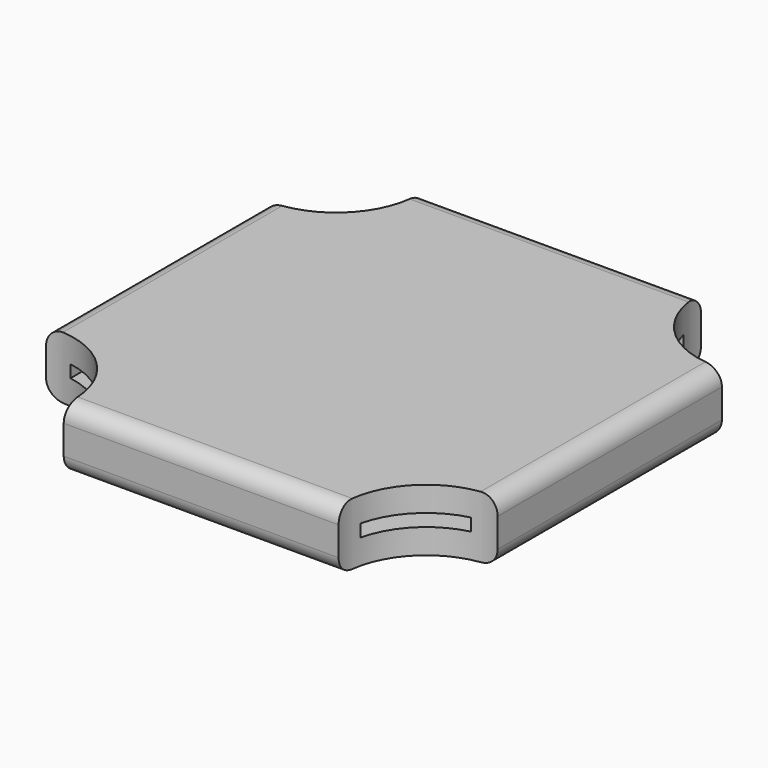
from build123d import *

# Parameters (mm, degrees)
F0_W      = 139.8479826748
F0_H      = 140.0080993772
F1_DEPTH  = 19.05
F2_R      = 5.08
F3_R      = 25.5680364158
F4_DEPTH  = 25.4
F5_DEPTH  = 25.4
F6_T      = -7.62
F7_R      = 25.4280545829
F8_DEPTH  = 25.4
F9_DEPTH  = 25.4
F10_R     = 25.4772603169
F11_DEPTH = 25.4
F12_DEPTH = 25.4
F13_R     = 25.5378066053
F14_DEPTH = 25.4
F15_DEPTH = 25.4


with BuildPart() as f1:
    # F0 (on Top) → F1 (new body)
    with BuildSketch(Plane.XY):
        with Locations((7.7169742435, 24.6758498251)):
            Rectangle(F0_W, F0_H)
    extrude(amount=F1_DEPTH)

    # F2
    f2_edges = [f1.edges().sort_by_distance(p)[0] for p in [
        (7.716974, -45.3282, 19.05),
        (7.716974, -45.3282, 0),
        (-62.207017, 94.6799, 9.525),
        (-62.207017, -45.3282, 9.525),
        (-62.207017, 24.67585, 0),
        (-62.207017, 24.67585, 19.05),
        (7.716974, 94.6799, 19.05),
        (7.716974, 94.6799, 0),
        (77.640966, 24.67585, 19.05),
        (77.640966, 24.67585, 0),
        (77.640966, -45.3282, 9.525),
        (77.640966, 94.6799, 9.525),
    ]]
    fillet(f2_edges, radius=F2_R)

    # F3 (on Top) → F4 (join)
    with BuildSketch(Plane.XY):
        with Locations((-58.9822605252, -41.7709499598)):
            Circle(F3_R)
    extrude(amount=F4_DEPTH)

    # F5 (cut): a face of the model
    f5_faces = [f1.faces().sort_by_distance(p)[0] for p in [
        (-58.9822605252, -41.7709499598, 25.4),
    ]]
    extrude(f5_faces, amount=-F5_DEPTH, mode=Mode.SUBTRACT)

    # F6
    f6_openings = [f1.faces().sort_by_distance(p)[0] for p in [
        (-40.784716, -23.810609, 9.525),
    ]]
    offset(amount=F6_T, openings=f6_openings, kind=Kind.INTERSECTION)

    # F7 (on Top) → F8 (join)
    with BuildSketch(Plane.XY):
        with Locations((-60.7334524393, 92.9428115487)):
            Circle(F7_R)
    extrude(amount=F8_DEPTH)

    # F9 (cut): a face of the model
    f9_faces = [f1.faces().sort_by_distance(p)[0] for p in [
        (-60.7334524393, 92.9428115487, 25.4),
    ]]
    extrude(f9_faces, amount=-F9_DEPTH, mode=Mode.SUBTRACT)

    # F10 (on Top) → F11 (join)
    with BuildSketch(Plane.XY):
        with Locations((76.0564357042, -43.5319244862)):
            Circle(F10_R)
    extrude(amount=F11_DEPTH)

    # F12 (cut): a face of the model
    f12_faces = [f1.faces().sort_by_distance(p)[0] for p in [
        (76.0564357042, -43.5319244862, 25.4),
    ]]
    extrude(f12_faces, amount=-F12_DEPTH, mode=Mode.SUBTRACT)

    # F13 (on Top) → F14 (join)
    with BuildSketch(Plane.XY):
        with Locations((75.2917006612, 93.2972580194)):
            Circle(F13_R)
    extrude(amount=F14_DEPTH)

    # F15 (cut): a face of the model
    f15_faces = [f1.faces().sort_by_distance(p)[0] for p in [
        (75.2917006612, 93.2972580194, 25.4),
    ]]
    extrude(f15_faces, amount=-F15_DEPTH, mode=Mode.SUBTRACT)


solid = f1.part
